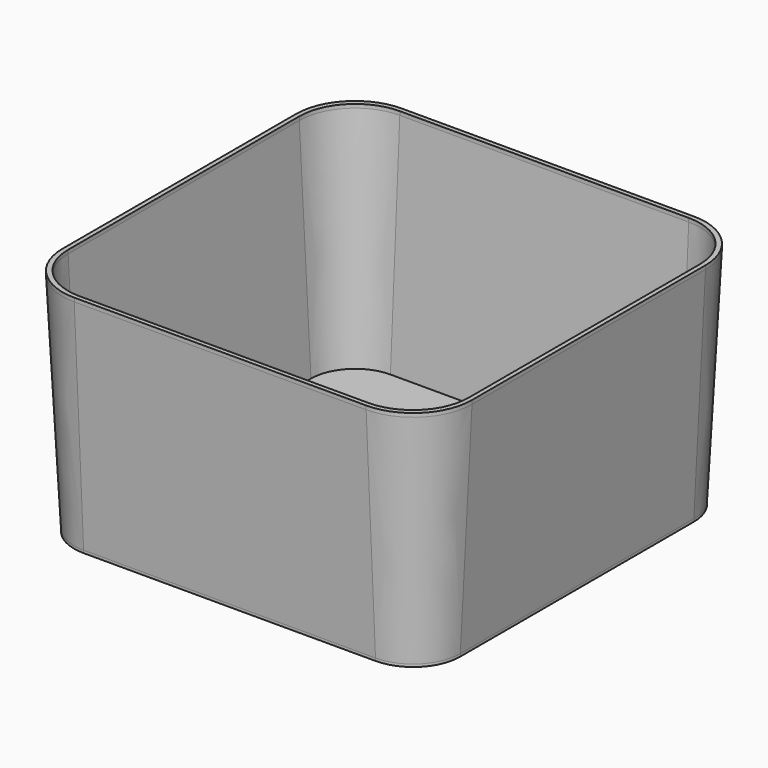
from build123d import *

# Parameters (mm, degrees)
F1_DEPTH = 1
F2_DEPTH = 60
F2_TAPER = 3
F3_DEPTH = 60
F3_TAPER = 3
F5_DEPTH = 0.7


with BuildPart() as f1:
    # F0 (on Top) → F1 (new body)
    with BuildSketch(Plane.XY):
        with BuildLine():
            Line((39.2, 55), (-39.2, 55))
            ThreePointArc((-39.2, 55), (-50.3722871427, 50.3722871427), (-55, 39.2))
            Line((-55, 39.2), (-55, -39.2))
            ThreePointArc((-55, -39.2), (-50.3722871427, -50.3722871427), (-39.2, -55))
            Line((-39.2, -55), (39.2, -55))
            ThreePointArc((39.2, -55), (50.3722871427, -50.3722871427), (55, -39.2))
            Line((55, -39.2), (55, 39.2))
            ThreePointArc((55, 39.2), (50.3722871427, 50.3722871427), (39.2, 55))
        make_face()
        with BuildLine():
            ThreePointArc((-53.8, 38.8), (-49.4066017178, 49.4066017178), (-38.8, 53.8))
            Line((-38.8, 53.8), (38.8, 53.8))
            ThreePointArc((38.8, 53.8), (49.4066017178, 49.4066017178), (53.8, 38.8))
            Line((53.8, 38.8), (53.8, -38.8))
            ThreePointArc((53.8, -38.8), (49.4066017178, -49.4066017178), (38.8, -53.8))
            Line((38.8, -53.8), (-38.8, -53.8))
            ThreePointArc((-38.8, -53.8), (-49.4066017178, -49.4066017178), (-53.8, -38.8))
            Line((-53.8, -38.8), (-53.8, 38.8))
        make_face(mode=Mode.SUBTRACT)
    extrude(amount=F1_DEPTH)

    # F0 (on Top) → F2 (join)
    with BuildSketch(Plane.XY):
        with BuildLine():
            Line((39.2, 55), (-39.2, 55))
            ThreePointArc((-39.2, 55), (-50.3722871427, 50.3722871427), (-55, 39.2))
            Line((-55, 39.2), (-55, -39.2))
            ThreePointArc((-55, -39.2), (-50.3722871427, -50.3722871427), (-39.2, -55))
            Line((-39.2, -55), (39.2, -55))
            ThreePointArc((39.2, -55), (50.3722871427, -50.3722871427), (55, -39.2))
            Line((55, -39.2), (55, 39.2))
            ThreePointArc((55, 39.2), (50.3722871427, 50.3722871427), (39.2, 55))
        make_face()
        with BuildLine():
            ThreePointArc((-53.8, 38.8), (-49.4066017178, 49.4066017178), (-38.8, 53.8))
            Line((-38.8, 53.8), (38.8, 53.8))
            ThreePointArc((38.8, 53.8), (49.4066017178, 49.4066017178), (53.8, 38.8))
            Line((53.8, 38.8), (53.8, -38.8))
            ThreePointArc((53.8, -38.8), (49.4066017178, -49.4066017178), (38.8, -53.8))
            Line((38.8, -53.8), (-38.8, -53.8))
            ThreePointArc((-38.8, -53.8), (-49.4066017178, -49.4066017178), (-53.8, -38.8))
            Line((-53.8, -38.8), (-53.8, 38.8))
        make_face(mode=Mode.SUBTRACT)
        with BuildLine():
            Line((38.8, 53.8), (-38.8, 53.8))
            ThreePointArc((-38.8, 53.8), (-49.4066017178, 49.4066017178), (-53.8, 38.8))
            Line((-53.8, 38.8), (-53.8, -38.8))
            ThreePointArc((-53.8, -38.8), (-49.4066017178, -49.4066017178), (-38.8, -53.8))
            Line((-38.8, -53.8), (38.8, -53.8))
            ThreePointArc((38.8, -53.8), (49.4066017178, -49.4066017178), (53.8, -38.8))
            Line((53.8, -38.8), (53.8, 38.8))
            ThreePointArc((53.8, 38.8), (49.4066017178, 49.4066017178), (38.8, 53.8))
        make_face()
    extrude(amount=-F2_DEPTH, taper=F2_TAPER)

    # F0 (on Top) → F3 (cut)
    with BuildSketch(Plane.XY):
        with BuildLine():
            Line((38.8, 53.8), (-38.8, 53.8))
            ThreePointArc((-38.8, 53.8), (-49.4066017178, 49.4066017178), (-53.8, 38.8))
            Line((-53.8, 38.8), (-53.8, -38.8))
            ThreePointArc((-53.8, -38.8), (-49.4066017178, -49.4066017178), (-38.8, -53.8))
            Line((-38.8, -53.8), (38.8, -53.8))
            ThreePointArc((38.8, -53.8), (49.4066017178, -49.4066017178), (53.8, -38.8))
            Line((53.8, -38.8), (53.8, 38.8))
            ThreePointArc((53.8, 38.8), (49.4066017178, 49.4066017178), (38.8, 53.8))
        make_face()
    extrude(amount=-F3_DEPTH, taper=F3_TAPER, mode=Mode.SUBTRACT)

    # F4 (on face) → F5 (join)
    with BuildSketch(Plane(origin=(0, 0, -60), x_dir=(1, 0, 0), z_dir=(0, 0, -1))):
        with BuildLine():
            ThreePointArc((39.2, -51.855533243), (48.1488133757, -48.1488133757), (51.855533243, -39.2))
            Line((51.855533243, -39.2), (51.855533243, 39.2))
            ThreePointArc((51.855533243, 39.2), (48.1488133757, 48.1488133757), (39.2, 51.855533243))
            Line((39.2, 51.855533243), (-39.2, 51.855533243))
            ThreePointArc((-39.2, 51.855533243), (-48.1488133757, 48.1488133757), (-51.855533243, 39.2))
            Line((-51.855533243, 39.2), (-51.855533243, -39.2))
            ThreePointArc((-51.855533243, -39.2), (-48.1488133757, -48.1488133757), (-39.2, -51.855533243))
            Line((-39.2, -51.855533243), (39.2, -51.855533243))
        make_face()
        with BuildLine():
            ThreePointArc((50.655533243, -38.8), (47.1831279507, -47.1831279507), (38.8, -50.655533243))
            Line((38.8, -50.655533243), (-38.8, -50.655533243))
            ThreePointArc((-38.8, -50.655533243), (-47.1831279507, -47.1831279507), (-50.655533243, -38.8))
            Line((-50.655533243, -38.8), (-50.655533243, 38.8))
            ThreePointArc((-50.655533243, 38.8), (-47.1831279507, 47.1831279507), (-38.8, 50.655533243))
            Line((-38.8, 50.655533243), (38.8, 50.655533243))
            ThreePointArc((38.8, 50.655533243), (47.1831279507, 47.1831279507), (50.655533243, 38.8))
            Line((50.655533243, 38.8), (50.655533243, -38.8))
        make_face(mode=Mode.SUBTRACT)
        with BuildLine():
            Line((-38.8, -50.655533243), (38.8, -50.655533243))
            ThreePointArc((38.8, -50.655533243), (47.1831279507, -47.1831279507), (50.655533243, -38.8))
            Line((50.655533243, -38.8), (50.655533243, 38.8))
            ThreePointArc((50.655533243, 38.8), (47.1831279507, 47.1831279507), (38.8, 50.655533243))
            Line((38.8, 50.655533243), (-38.8, 50.655533243))
            ThreePointArc((-38.8, 50.655533243), (-47.1831279507, 47.1831279507), (-50.655533243, 38.8))
            Line((-50.655533243, 38.8), (-50.655533243, -38.8))
            ThreePointArc((-50.655533243, -38.8), (-47.1831279507, -47.1831279507), (-38.8, -50.655533243))
        make_face()
    extrude(amount=F5_DEPTH)


solid = f1.part
